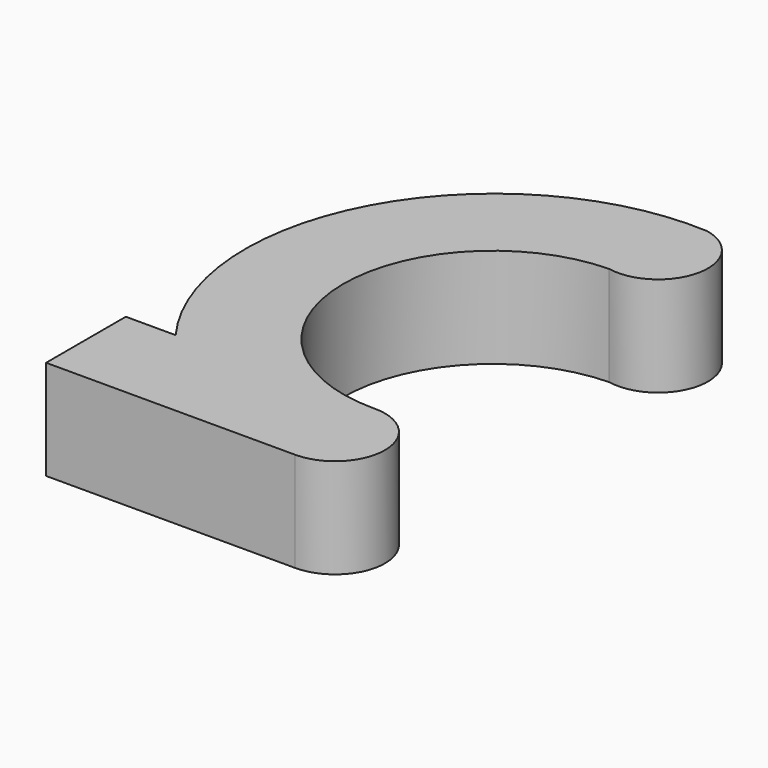
from build123d import *

# Parameters (mm, degrees)
PAD_DEPTH    = 4
SKETCH001_W  = 2
SKETCH001_H  = 2
POCKET_DEPTH = 10


with BuildPart() as part:
    # Sketch → Pad (new body)
    with BuildSketch(Plane.XY):
        with BuildLine():
            Line((2, 4), (0, 4))
            Line((0, 4), (0, 0))
            Line((0, 0), (10, 0))
            ThreePointArc((10, 0), (11.999695, 2.034905), (9.930201, 3.998782))
            ThreePointArc((9.8035, 15.997444), (3.930535, 9.935427), (9.930201, 3.998782))
            ThreePointArc((9.8035, 15.997444), (12.157765, 17.565064), (10.590145, 19.91933))
            ThreePointArc((10.590145, 19.91933), (1.248586, 14.682773), (2, 4))
        make_face()
    extrude(amount=PAD_DEPTH)

    # Sketch001 (on DatumPlane) → Pocket (cut)
    with BuildSketch(Plane(origin=(0, 0, 0), x_dir=(0, -1, 0), z_dir=(-1, 0, 0))):
        with Locations((-2.001803, 1.992215)):
            Rectangle(SKETCH001_W, SKETCH001_H)
    extrude(amount=-POCKET_DEPTH, mode=Mode.SUBTRACT)


solid = part.part
